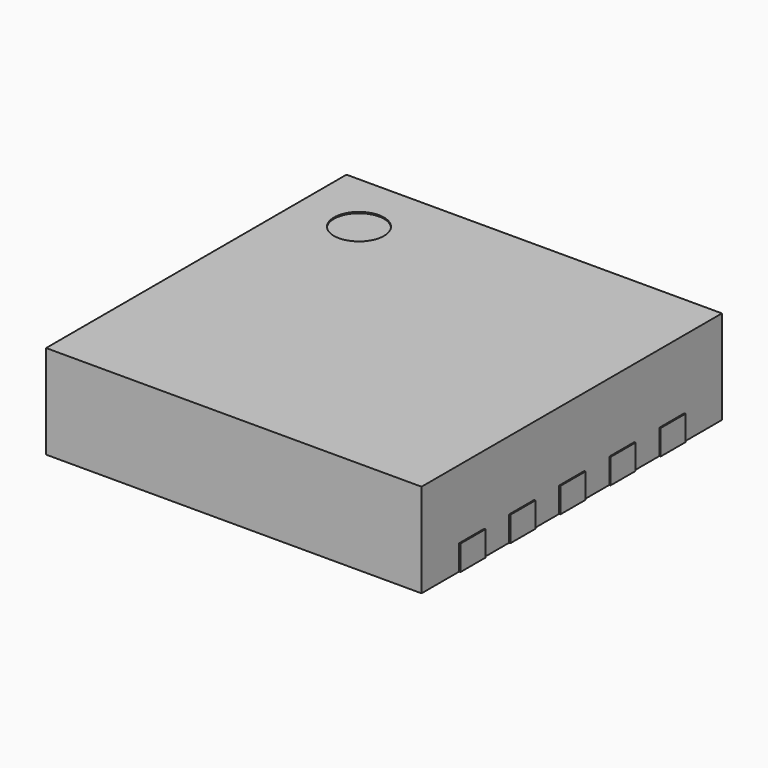
from build123d import *

# Parameters (mm, degrees)
SKETCH001_W               = 3
SKETCH001_H               = 3
PAD001_DEPTH              = 0.75
PAD_DEPTH                 = 0.2
PAD_LINEARPATTERN_2_DEPTH = 0.2
PAD_LINEARPATTERN_3_DEPTH = 0.2
PAD_LINEARPATTERN_4_DEPTH = 0.2
PAD_LINEARPATTERN_5_DEPTH = 0.2
SKETCH002_R               = 0.2
POCKET_DEPTH              = 0.01
POCKET001_DEPTH           = 0.01


with BuildPart() as part:
    # Sketch001 → Pad001 (new body)
    with BuildSketch(Plane.XY):
        Rectangle(SKETCH001_W, SKETCH001_H)
    extrude(amount=PAD001_DEPTH)

    # Sketch → Pad (join)
    with BuildSketch(Plane.XY):
        with BuildLine():
            Line((-1.51, 1.125), (-1.235, 1.125))
            ThreePointArc((-1.235, 0.875), (-1.11, 1), (-1.235, 1.125))
            Line((-1.235, 0.875), (-1.51, 0.875))
            Line((-1.51, 0.875), (-1.51, 1.125))
        make_face()
    pad = extrude(amount=PAD_DEPTH)

    # Sketch LinearPattern 2 → Pad LinearPattern 2 (add)
    with BuildSketch(Plane(origin=(0, -0.5, 0), x_dir=(1, 0, 0), z_dir=(0, 0, 1))):
        with BuildLine():
            Line((-1.51, 1.125), (-1.235, 1.125))
            ThreePointArc((-1.235, 0.875), (-1.11, 1), (-1.235, 1.125))
            Line((-1.235, 0.875), (-1.51, 0.875))
            Line((-1.51, 0.875), (-1.51, 1.125))
        make_face()
    pad_linearpattern_2 = extrude(amount=PAD_LINEARPATTERN_2_DEPTH)

    # Sketch LinearPattern 3 → Pad LinearPattern 3 (add)
    with BuildSketch(Plane(origin=(0, -1, 0), x_dir=(1, 0, 0), z_dir=(0, 0, 1))):
        with BuildLine():
            Line((-1.51, 1.125), (-1.235, 1.125))
            ThreePointArc((-1.235, 0.875), (-1.11, 1), (-1.235, 1.125))
            Line((-1.235, 0.875), (-1.51, 0.875))
            Line((-1.51, 0.875), (-1.51, 1.125))
        make_face()
    pad_linearpattern_3 = extrude(amount=PAD_LINEARPATTERN_3_DEPTH)

    # Sketch LinearPattern 4 → Pad LinearPattern 4 (add)
    with BuildSketch(Plane(origin=(0, -1.5, 0), x_dir=(1, 0, 0), z_dir=(0, 0, 1))):
        with BuildLine():
            Line((-1.51, 1.125), (-1.235, 1.125))
            ThreePointArc((-1.235, 0.875), (-1.11, 1), (-1.235, 1.125))
            Line((-1.235, 0.875), (-1.51, 0.875))
            Line((-1.51, 0.875), (-1.51, 1.125))
        make_face()
    pad_linearpattern_4 = extrude(amount=PAD_LINEARPATTERN_4_DEPTH)

    # Sketch LinearPattern 5 → Pad LinearPattern 5 (add)
    with BuildSketch(Plane(origin=(0, -2, 0), x_dir=(1, 0, 0), z_dir=(0, 0, 1))):
        with BuildLine():
            Line((-1.51, 1.125), (-1.235, 1.125))
            ThreePointArc((-1.235, 0.875), (-1.11, 1), (-1.235, 1.125))
            Line((-1.235, 0.875), (-1.51, 0.875))
            Line((-1.51, 0.875), (-1.51, 1.125))
        make_face()
    pad_linearpattern_5 = extrude(amount=PAD_LINEARPATTERN_5_DEPTH)

    # Mirrored: Pad, Pad LinearPattern 2, Pad LinearPattern 3, Pad LinearPattern 4, Pad LinearPattern 5 across Sketch V_Axis
    add(pad.mirror(Plane(origin=(0, 0, 0), x_dir=(0, 0, 1), z_dir=(1, 0, 0))))
    add(pad_linearpattern_2.mirror(Plane(origin=(0, 0, 0), x_dir=(0, 0, 1), z_dir=(1, 0, 0))))
    add(pad_linearpattern_3.mirror(Plane(origin=(0, 0, 0), x_dir=(0, 0, 1), z_dir=(1, 0, 0))))
    add(pad_linearpattern_4.mirror(Plane(origin=(0, 0, 0), x_dir=(0, 0, 1), z_dir=(1, 0, 0))))
    add(pad_linearpattern_5.mirror(Plane(origin=(0, 0, 0), x_dir=(0, 0, 1), z_dir=(1, 0, 0))))

    # Sketch002 (on Face19 of MultiTransform) → Pocket (cut)
    with BuildSketch(Plane.XY.offset(0.75)):
        with Locations((-1, 1)):
            Circle(SKETCH002_R)
    extrude(amount=-POCKET_DEPTH, mode=Mode.SUBTRACT)

    # Sketch003 (on Face2 of Pocket) → Pocket001 (cut)
    with BuildSketch(Plane(origin=(0, 0, 0), x_dir=(1, 0, 0), z_dir=(0, 0, -1))):
        with BuildLine():
            Line((0.725, -1.19), (-0.577513, -1.19))
            Line((-0.577513, -1.19), (-0.825, -0.942513))
            Line((-0.825, -0.942513), (-0.825, 1.09))
            ThreePointArc((-0.725, 1.19), (-0.795711, 1.160711), (-0.825, 1.09))
            Line((-0.725, 1.19), (0.725, 1.19))
            ThreePointArc((0.825, 1.09), (0.795711, 1.160711), (0.725, 1.19))
            Line((0.825, 1.09), (0.825, -1.09))
            ThreePointArc((0.725, -1.19), (0.795711, -1.160711), (0.825, -1.09))
        make_face()
    extrude(amount=-POCKET001_DEPTH, mode=Mode.SUBTRACT)


solid = part.part
